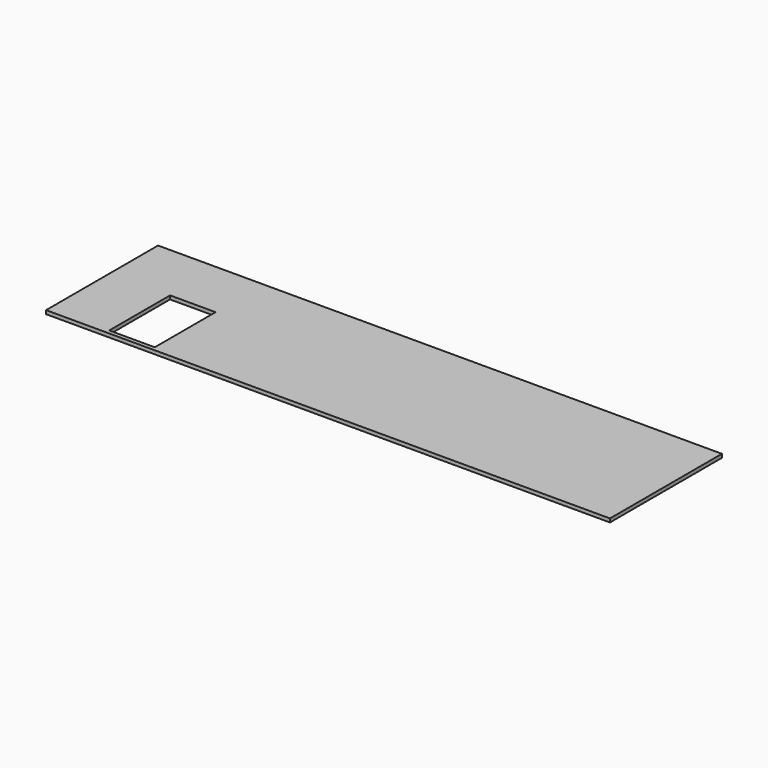
from build123d import *

# Parameters (mm, degrees)
F0_W     = 2820
F0_H     = 700
F1_DEPTH = 9
F2_W     = 227.583804
F2_H     = 380
F3_DEPTH = 25


with BuildPart() as f1:
    # F0 (on Top) → F1 (new body, symmetric)
    with BuildSketch(Plane.XY):
        Rectangle(F0_W, F0_H)
    extrude(amount=F1_DEPTH, both=True)

    # F2 (on face) → F3 (cut)
    with BuildSketch(Plane.XY.offset(9)):
        with Locations((-996.208098, -140)):
            Rectangle(F2_W, F2_H)
    extrude(amount=-F3_DEPTH, mode=Mode.SUBTRACT)


solid = f1.part
